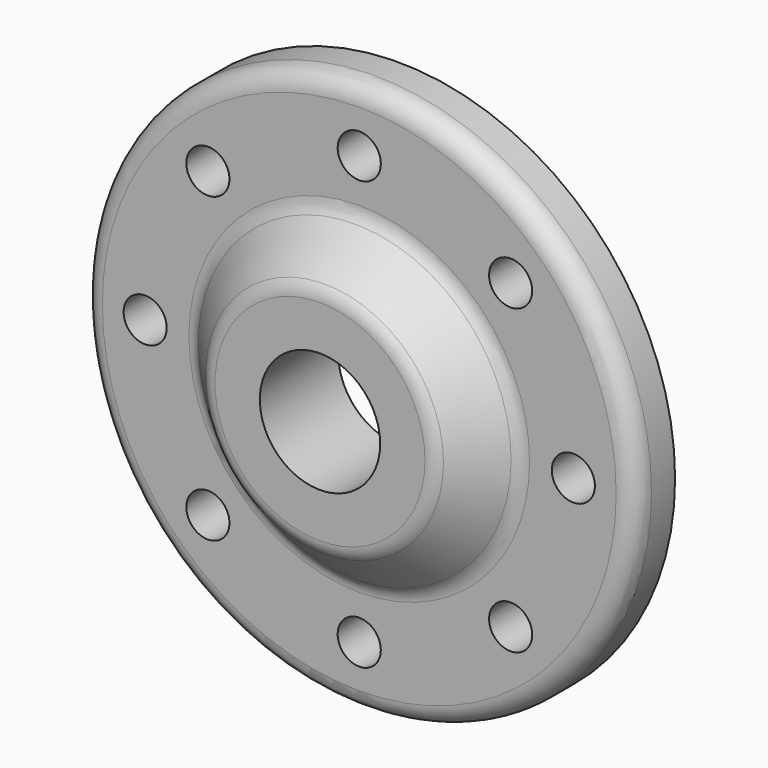
from build123d import *

# Parameters (mm, degrees)
F0_R          = 71.5623861555
F1_DEPTH      = 12.7
F3_R          = 41.9736648942
F4_DEPTH      = 12.7
F4_TAPER      = 45
F5_R          = 15.5695486485
F6_DEPTH      = 25.4
F6_DEPTH_BACK = 25.4
F7_R          = 5.5767629642
F8_DEPTH      = 25.4
F9_R          = 5.08
F10_T         = -2.54


with BuildPart() as f1:
    # F0 (on Front) → F1 (new body)
    with BuildSketch(Plane.XZ):
        Circle(F0_R)
    extrude(amount=F1_DEPTH)

    # F3 (on offset) → F4 (join)
    with BuildSketch(Plane.XZ.offset(12.7)):
        Circle(F3_R)
    extrude(amount=F4_DEPTH, taper=F4_TAPER)

    # F5 (on offset) → F6 (cut, two sides)
    with BuildSketch(Plane.XZ.offset(12.7)) as f6_sk:
        Circle(F5_R)
    extrude(amount=-F6_DEPTH, mode=Mode.SUBTRACT)
    extrude(f6_sk.sketch, amount=F6_DEPTH_BACK, mode=Mode.SUBTRACT)

    # F7 (on Front) → F8 (cut)
    with BuildSketch(Plane.XZ):
        with Locations((0, 55.3915388882)):
            Circle(F7_R)
        with Locations((-39.1677327682, 39.1677327682)):
            Circle(F7_R)
        with Locations((-55.3915388882, 0)):
            Circle(F7_R)
        with Locations((-39.1677327682, -39.1677327682)):
            Circle(F7_R)
        with Locations((0, -55.3915388882)):
            Circle(F7_R)
        with Locations((39.1677327682, -39.1677327682)):
            Circle(F7_R)
        with Locations((55.3915388882, 0)):
            Circle(F7_R)
        with Locations((39.1677327682, 39.1677327682)):
            Circle(F7_R)
    extrude(amount=F8_DEPTH, mode=Mode.SUBTRACT)

    # F9
    f9_edges = [f1.edges().sort_by_distance(p)[0] for p in [
        (-71.562386, -12.7, 0),
        (-41.973665, -12.7, 0),
        (-29.273665, -25.4, 0),
    ]]
    fillet(f9_edges, radius=F9_R)

    # F10
    f10_openings = [f1.faces().sort_by_distance(p)[0] for p in [
        (-69.538296, 0, 0),
    ]]
    offset(amount=F10_T, openings=f10_openings)


solid = f1.part
